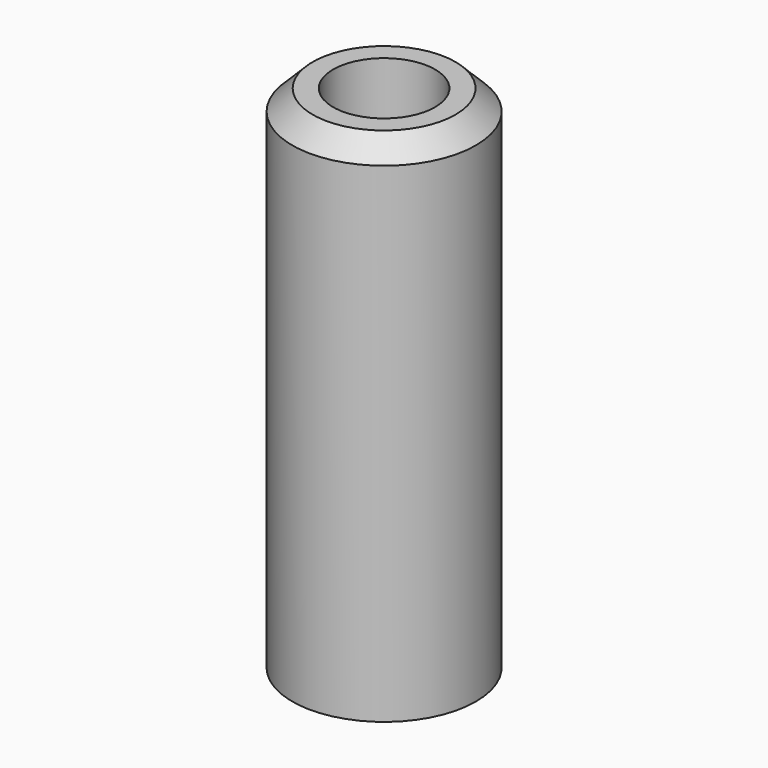
from build123d import *

# Parameters (mm, degrees)
SKETCH_R     = 4.5
SKETCH_R_2   = 2.5
PAD_DEPTH    = 25
CHAMFER_SIZE = 1


with BuildPart() as part:
    # Sketch → Pad (new body)
    with BuildSketch(Plane.XY):
        Circle(SKETCH_R)
        Circle(SKETCH_R_2, mode=Mode.SUBTRACT)
    extrude(amount=PAD_DEPTH)

    # Chamfer
    chamfer_edges = [part.edges().sort_by_distance(p)[0] for p in [
        (-4.5, 0, 25),
    ]]
    chamfer(chamfer_edges, length=CHAMFER_SIZE)


solid = part.part
